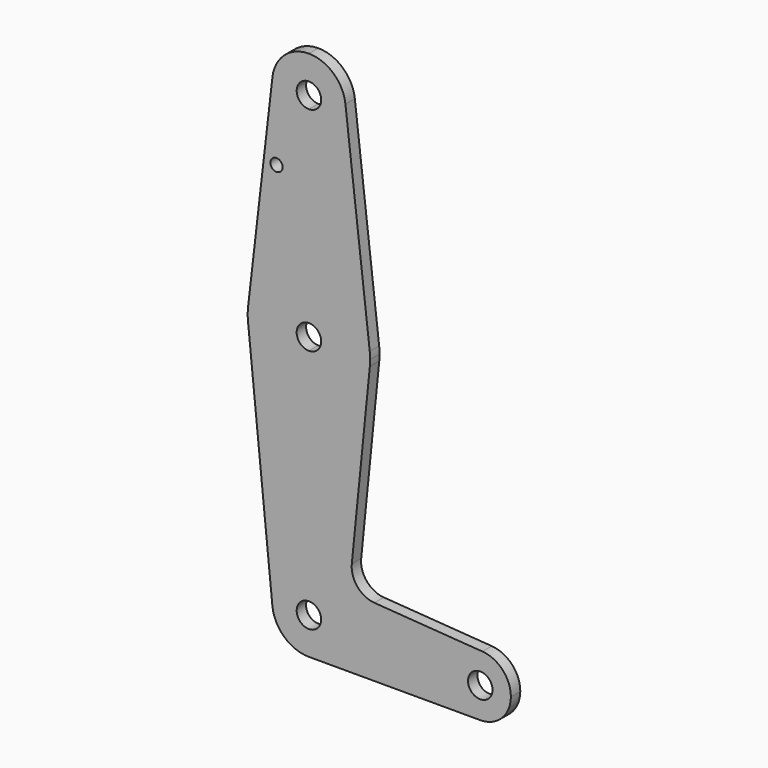
from build123d import *

# Parameters (mm, degrees)
F0_R     = 1.5875
F0_R_2   = 3.175
F1_DEPTH = 3.048


with BuildPart() as f1:
    # F0 (on Front) → F1 (new body)
    with BuildSketch(Plane.XZ):
        with BuildLine():
            ThreePointArc((0, 55.163064), (2.245064, 54.233128), (3.175, 51.988064))
            ThreePointArc((3.175, 51.988064), (2.245064, 49.743), (0, 48.813064))
            Line((0, 48.813064), (0, 42.463064))
            ThreePointArc((0, 42.463064), (6.735192, 45.252872), (9.525, 51.988064))
            ThreePointArc((9.525, 51.988064), (9.509147, 52.537388), (9.461639, 53.084883))
            ThreePointArc((9.461639, 53.084883), (6.335551, 59.100477), (0, 61.513064))
            Line((0, 61.513064), (0, 55.163064))
        make_face()
        with BuildLine():
            ThreePointArc((0, 48.813064), (-3.175, 51.988064), (0, 55.163064))
            Line((0, 55.163064), (0, 61.513064))
            ThreePointArc((0, 61.513064), (-6.335551, 59.100477), (-9.461639, 53.084883))
            ThreePointArc((-9.461639, 53.084883), (-7.112413, 45.652513), (0, 42.463064))
            Line((0, 42.463064), (0, 48.813064))
        make_face()
        with BuildLine():
            Line((0, 12.718398), (0, 42.463064))
            ThreePointArc((0, 42.463064), (-7.112413, 45.652513), (-9.461639, 53.084883))
            Line((-9.461639, 53.084883), (-15.769398, -1.32857))
            ThreePointArc((-15.769398, -1.32857), (-10.559252, 8.697419), (0, 12.718398))
        make_face()
        with Locations((-8.408644, 33.368598)):
            Circle(F0_R, mode=Mode.SUBTRACT)
        with BuildLine():
            ThreePointArc((9.525, 51.988064), (6.735192, 45.252872), (0, 42.463064))
            Line((0, 42.463064), (0, 12.718398))
            ThreePointArc((0, 12.718398), (10.559252, 8.697419), (15.769398, -1.32857))
            Line((15.769398, -1.32857), (9.461639, 53.084883))
            ThreePointArc((9.461639, 53.084883), (9.509147, 52.537388), (9.525, 51.988064))
        make_face()
        with BuildLine():
            Line((0, 0.018398), (0, 12.718398))
            ThreePointArc((0, 12.718398), (-10.559252, 8.697419), (-15.769398, -1.32857))
            ThreePointArc((-15.769398, -1.32857), (-15.874539, -3.035634), (-15.795426, -4.744102))
            ThreePointArc((-15.795426, -4.744102), (-10.649274, -14.929817), (0, -19.031602))
            Line((0, -19.031602), (0, -6.331602))
            ThreePointArc((0, -6.331602), (-3.175, -3.156602), (0, 0.018398))
        make_face()
        with BuildLine():
            ThreePointArc((15.769398, -1.32857), (10.559252, 8.697419), (0, 12.718398))
            Line((0, 12.718398), (0, 0.018398))
            ThreePointArc((0, 0.018398), (2.245064, -0.911538), (3.175, -3.156602))
            ThreePointArc((3.175, -3.156602), (2.245064, -5.401666), (0, -6.331602))
            Line((0, -6.331602), (0, -19.031602))
            ThreePointArc((0, -19.031602), (10.649274, -14.929817), (15.795426, -4.744102))
            ThreePointArc((15.795426, -4.744102), (15.855094, -3.951349), (15.875, -3.156602))
            ThreePointArc((15.875, -3.156602), (15.848578, -2.241062), (15.769398, -1.32857))
        make_face()
        with BuildLine():
            ThreePointArc((0, -19.031602), (-10.649274, -14.929817), (-15.795426, -4.744102))
            Line((-15.795426, -4.744102), (-9.477255, -67.609102))
            ThreePointArc((-9.477255, -67.609102), (-7.063929, -60.267038), (0, -57.131602))
            Line((0, -57.131602), (0, -19.031602))
        make_face()
        with BuildLine():
            Line((11.111022, -51.353331), (15.795426, -4.744102))
            ThreePointArc((15.795426, -4.744102), (10.649274, -14.929817), (0, -19.031602))
            Line((0, -19.031602), (0, -57.131602))
            ThreePointArc((0, -57.131602), (6.735192, -59.92141), (9.525, -66.656602))
            ThreePointArc((9.525, -66.656602), (6.735192, -73.391794), (0, -76.181602))
            Line((0, -76.181602), (44.421643, -76.181602))
            ThreePointArc((44.421643, -76.181602), (36.489207, -67.96062), (44.988245, -60.326851))
            Line((44.988245, -60.326851), (16.97591, -58.322132))
            ThreePointArc((16.97591, -58.322132), (12.570778, -56.077134), (11.111022, -51.353331))
        make_face()
        with BuildLine():
            ThreePointArc((3.175, -66.656602), (2.245064, -64.411538), (0, -63.481602))
            ThreePointArc((0, -63.481602), (-2.245064, -68.901666), (3.175, -66.656602))
        make_face()
        with BuildLine():
            ThreePointArc((0, -57.131602), (-7.063929, -60.267038), (-9.477255, -67.609102))
            ThreePointArc((-9.477255, -67.609102), (-6.389564, -73.720531), (0, -76.181602))
            ThreePointArc((0, -76.181602), (6.735192, -73.391794), (9.525, -66.656602))
            ThreePointArc((9.525, -66.656602), (6.735192, -59.92141), (0, -57.131602))
        make_face()
        with BuildLine():
            ThreePointArc((3.175, -66.656602), (-2.245064, -68.901666), (0, -63.481602))
            ThreePointArc((0, -63.481602), (2.245064, -64.411538), (3.175, -66.656602))
        make_face(mode=Mode.SUBTRACT)
        with BuildLine():
            ThreePointArc((44.988245, -60.326851), (36.489207, -67.96062), (44.421643, -76.181602))
            ThreePointArc((44.421643, -76.181602), (50.034303, -73.856762), (52.359143, -68.244102))
            ThreePointArc((52.359143, -68.244102), (50.231174, -62.835475), (44.988245, -60.326851))
        make_face()
        with Locations((44.421643, -68.244102)):
            Circle(F0_R_2, mode=Mode.SUBTRACT)
    extrude(amount=F1_DEPTH)


solid = f1.part
